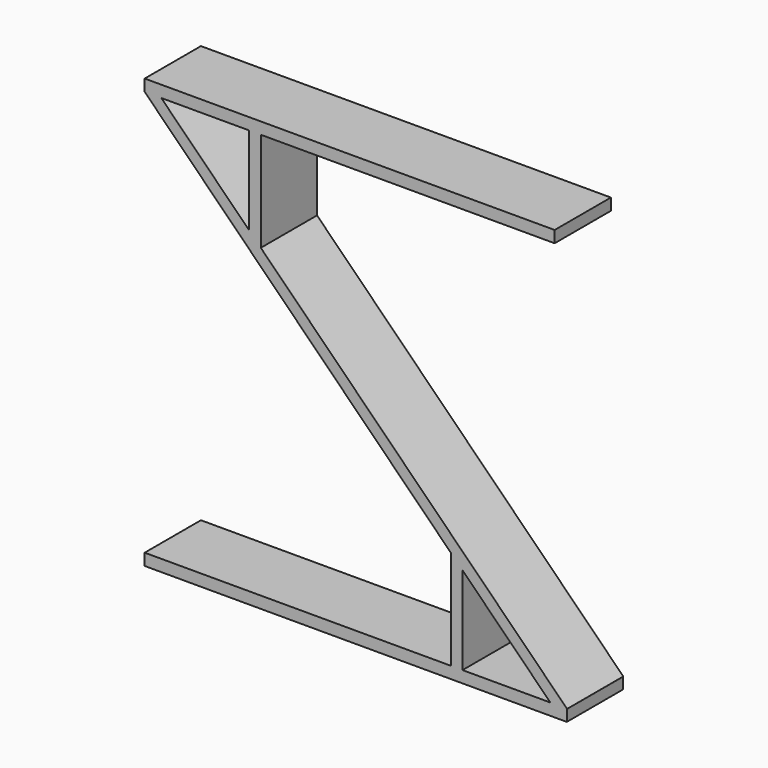
from build123d import *

# Parameters (mm, degrees)
F1_DEPTH = 120


with BuildPart() as f1:
    # F0 (on Front) → F1 (new body)
    with BuildSketch(Plane.XZ):
        Polygon((356.159233, 498.875577), (356.159233, 518.875577), (-343.840767, 518.875577), (-343.840767, 498.875577), (-315.556496, 498.875577), (-165.556496, 498.875577), (-145.556496, 498.875577), align=None)
        Polygon((-315.556496, 498.875577), (-343.840767, 498.875577), (178.866161, -23.83135), (198.866161, -43.83135), (348.866161, -193.83135), (376.951969, -193.83135), (376.951969, -194.545249), (377.40815, -194.089068), (-145.556496, 328.875577), (-165.556496, 348.875577), align=None)
        Polygon((-145.556496, 328.875577), (-145.556496, 498.875577), (-165.556496, 498.875577), (-165.556496, 348.875577), align=None)
        Polygon((198.866161, -43.83135), (178.866161, -23.83135), (178.866161, -193.83135), (198.866161, -193.83135), align=None)
        Polygon((198.866161, -193.83135), (178.866161, -193.83135), (-343.840767, -193.83135), (-343.840767, -213.83135), (376.951969, -213.83135), (376.951969, -194.545249), (376.951969, -193.83135), (348.866161, -193.83135), align=None)
    extrude(amount=F1_DEPTH)


solid = f1.part
